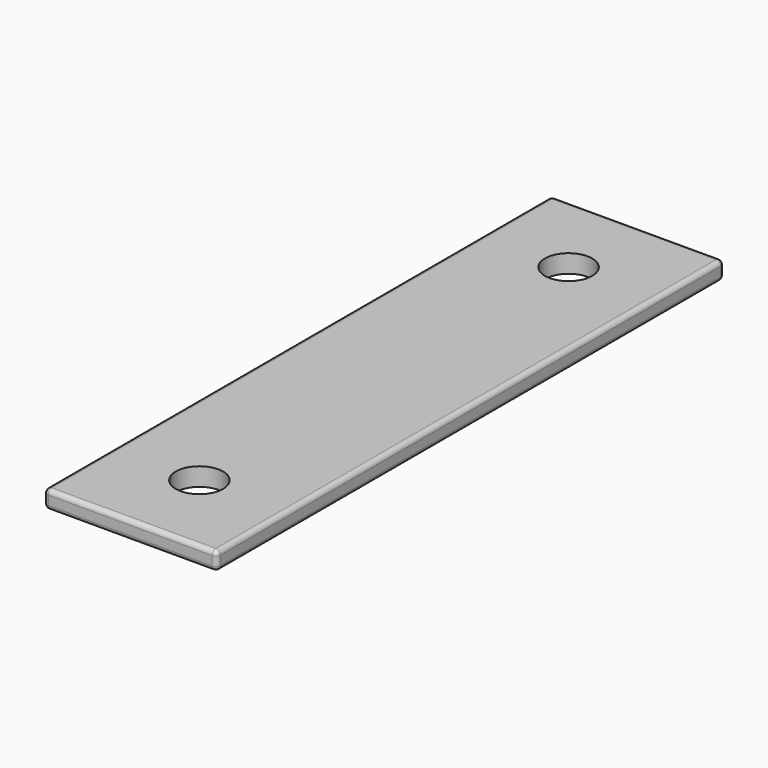
from build123d import *

# Parameters (mm, degrees)
SKETCH022_W         = 19.05
SKETCH022_H         = 69.85
PAD009_DEPTH        = 2
SKETCH023_R         = 2.6035
POCKET011_DEPTH     = 2.001
LINEARPATTERN_COUNT = 2
LINEARPATTERN_PITCH = 50.8
FILLET008_R         = 0.5


with BuildPart() as part:
    # Sketch022 → Pad009 (new body)
    with BuildSketch(Plane.XY):
        with Locations((9.525, 34.925)):
            Rectangle(SKETCH022_W, SKETCH022_H)
    extrude(amount=PAD009_DEPTH)

    # Sketch023 (on Face6 of Pad009) → Pocket011 (cut, through all)
    with BuildSketch(Plane.XY.offset(2)):
        with Locations((9.525, 9.525)):
            Circle(SKETCH023_R)
    pocket011 = extrude(amount=-POCKET011_DEPTH, mode=Mode.SUBTRACT)

    # LinearPattern: Pocket011 ×2
    with Locations(*[(0, i * LINEARPATTERN_PITCH, 0) for i in range(1, LINEARPATTERN_COUNT)]):
        add(pocket011, mode=Mode.SUBTRACT)

    # Fillet008
    fillet008_edges = [part.edges().sort_by_distance(p)[0] for p in [
        (0, 0, 1),
        (19.05, 0, 1),
        (9.525, 0, 0),
        (9.525, 0, 2),
        (19.05, 69.85, 1),
        (19.05, 34.925, 0),
        (19.05, 34.925, 2),
        (0, 69.85, 1),
        (0, 34.925, 0),
        (0, 34.925, 2),
        (9.525, 69.85, 0),
        (9.525, 69.85, 2),
    ]]
    fillet(fillet008_edges, radius=FILLET008_R)


solid = part.part
